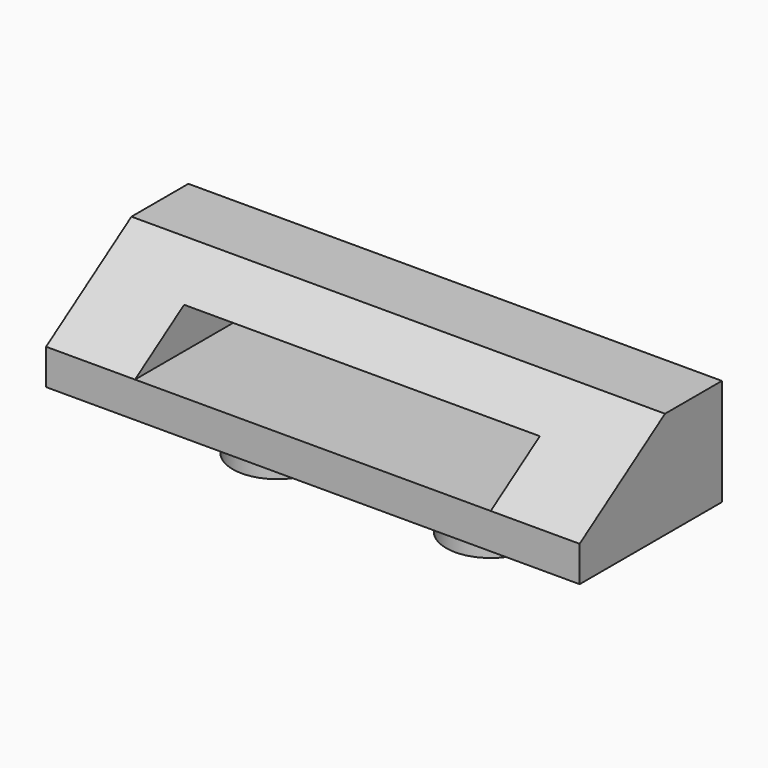
from build123d import *

# Parameters (mm, degrees)
F0_W     = 38.1
F0_H     = 12.7
F1_DEPTH = 2.54
F3_DEPTH = 38.1
F4_W     = 25.4
F4_H     = 2.921
F5_DEPTH = 12.7
F6_R     = 3.175
F7_DEPTH = 3


with BuildPart() as f1:
    # F0 (on Top) → F1 (new body)
    with BuildSketch(Plane.XY):
        with Locations((19.05, 6.35)):
            Rectangle(F0_W, F0_H)
    extrude(amount=F1_DEPTH)

    # F2 (on face) → F3 (join)
    with BuildSketch(Plane.YZ.offset(38.1)):
        Polygon((0, 2.54), (12.7, 2.54), (12.7, 7.62), (7.62, 7.62), align=None)
    extrude(amount=-F3_DEPTH)

    # F4 (on face) → F5 (cut)
    with BuildSketch(Plane.XZ):
        with Locations((19.05, 4.0005)):
            Rectangle(F4_W, F4_H)
    extrude(amount=-F5_DEPTH, mode=Mode.SUBTRACT)

    # F6 (on face) → F7 (join)
    with BuildSketch(Plane(origin=(0, 0, 0), x_dir=(1, 0, 0), z_dir=(0, 0, -1))):
        with Locations((11.43, -6.35)):
            Circle(F6_R)
        with Locations((26.67, -6.35)):
            Circle(F6_R)
    extrude(amount=F7_DEPTH)


solid = f1.part
